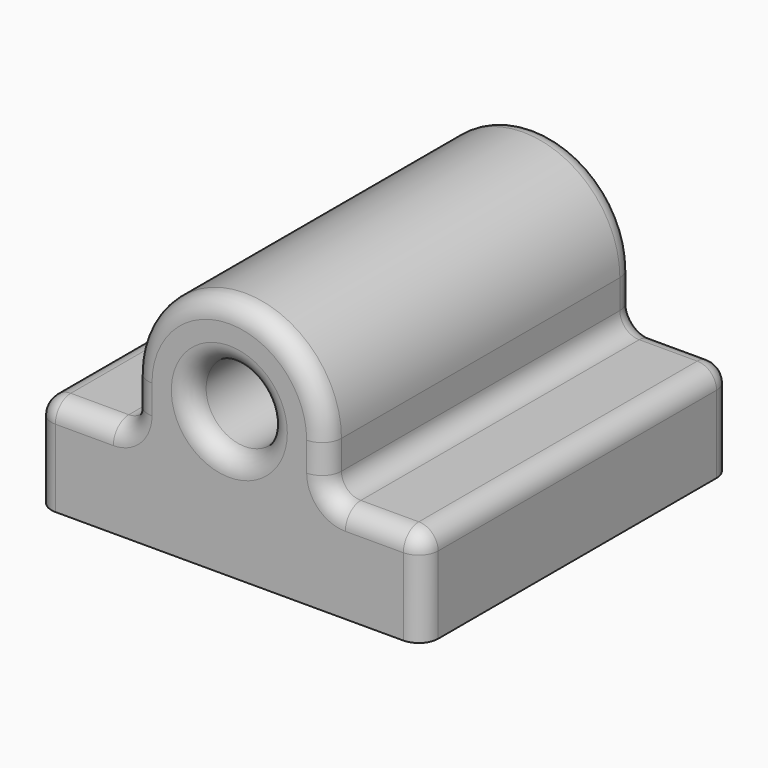
from build123d import *

# Parameters (mm, degrees)
SKETCH_R      = 4
EXTRUDE_DEPTH = 40
FILLET_R      = 2
FILLET001_R   = 2


with BuildPart() as part:
    # Sketch → Extrude (new body)
    with BuildSketch(Plane.XZ):
        with BuildLine():
            Line((0, 0), (40, 0))
            Line((40, 0), (40, 10))
            Line((40, 10), (30, 10))
            Line((30, 10), (30, 15))
            ThreePointArc((30, 15), (20, 25), (10, 15))
            Line((10, 10), (10, 15))
            Line((0, 10), (10, 10))
            Line((0, 10), (0, 0))
        make_face()
        with Locations((20, 15)):
            Circle(SKETCH_R, mode=Mode.SUBTRACT)
    extrude(amount=EXTRUDE_DEPTH)

    # Fillet
    fillet_edges = [part.edges().sort_by_distance(p)[0] for p in [
        (40, -20, 10),
        (30, -20, 10),
        (10, -20, 10),
        (0, -20, 10),
    ]]
    fillet(fillet_edges, radius=FILLET_R)

    # Fillet001
    fillet001_edges = [part.edges().sort_by_distance(p)[0] for p in [
        (20, 0, 25),
        (16, 0, 15),
        (20, -40, 25),
        (16, -40, 15),
    ]]
    fillet(fillet001_edges, radius=FILLET001_R)


solid = part.part
